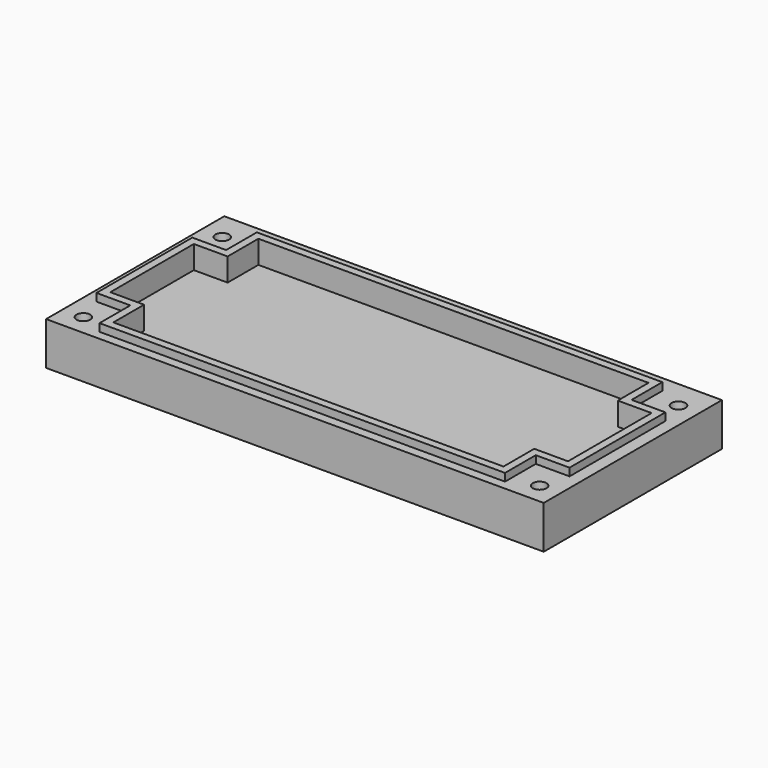
from build123d import *

# Parameters (mm, degrees)
F0_W     = 82.296
F0_H     = 36.83
F0_R     = 1.143
F1_DEPTH = 7.112
F2_DEPTH = 8.382
F3_DEPTH = 4.572


with BuildPart() as f1:
    # F0 (on Top) → F1 (new body)
    with BuildSketch(Plane.XY):
        with Locations((-41.148, 18.415)):
            Rectangle(F0_W, F0_H)
        with Locations((-78.867, 3.429)):
            Circle(F0_R, mode=Mode.SUBTRACT)
        with Locations((-3.429, 3.429)):
            Circle(F0_R, mode=Mode.SUBTRACT)
        Polygon((-7.62, 7.874), (-7.62, 1.524), (-74.676, 1.524), (-74.676, 7.874), (-80.264, 7.874), (-80.264, 27.686), (-74.676, 27.686), (-74.676, 34.036), (-7.62, 34.036), (-7.62, 27.686), (-2.032, 27.686), (-2.032, 7.874), align=None, mode=Mode.SUBTRACT)
        with Locations((-78.867, 32.131)):
            Circle(F0_R, mode=Mode.SUBTRACT)
        with Locations((-3.429, 32.131)):
            Circle(F0_R, mode=Mode.SUBTRACT)
    extrude(amount=F1_DEPTH)

    # F0 (on Top) → F2 (join)
    with BuildSketch(Plane.XY):
        Polygon((-74.676, 1.524), (-7.62, 1.524), (-7.62, 7.874), (-2.032, 7.874), (-2.032, 27.686), (-7.62, 27.686), (-7.62, 34.036), (-74.676, 34.036), (-74.676, 27.686), (-80.264, 27.686), (-80.264, 7.874), (-74.676, 7.874), align=None)
        Polygon((-8.89, 9.144), (-8.89, 2.794), (-73.406, 2.794), (-73.406, 9.144), (-78.994, 9.144), (-78.994, 26.416), (-73.406, 26.416), (-73.406, 32.766), (-8.89, 32.766), (-8.89, 26.416), (-3.302, 26.416), (-3.302, 9.144), align=None, mode=Mode.SUBTRACT)
    extrude(amount=F2_DEPTH)

    # F0 (on Top) → F3 (join)
    with BuildSketch(Plane.XY):
        Polygon((-73.406, 2.794), (-8.89, 2.794), (-8.89, 9.144), (-3.302, 9.144), (-3.302, 26.416), (-8.89, 26.416), (-8.89, 32.766), (-73.406, 32.766), (-73.406, 26.416), (-78.994, 26.416), (-78.994, 9.144), (-73.406, 9.144), align=None)
    extrude(amount=F3_DEPTH)


solid = f1.part
